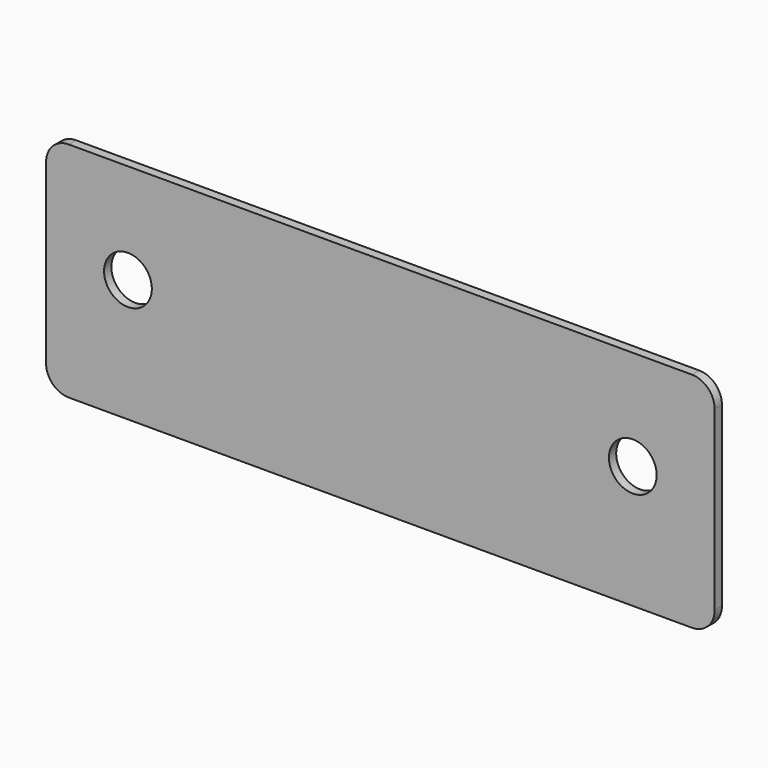
from build123d import *

# Parameters (mm, degrees)
F0_W     = 147
F0_H     = 49
F1_DEPTH = 2
F2_R     = 5
F3_R     = 5
F4_R     = 5
F7_D     = 10.5


with BuildPart() as f1:
    # F0 (on Front) → F1 (new body)
    with BuildSketch(Plane.XZ):
        with Locations((-73.5, 24.5)):
            Rectangle(F0_W, F0_H)
    extrude(amount=-F1_DEPTH)

    # F2
    f2_edges = [f1.edges().sort_by_distance(p)[0] for p in [
        (0, 1, 49),
    ]]
    fillet(f2_edges, radius=F2_R)

    # F3
    f3_edges = [f1.edges().sort_by_distance(p)[0] for p in [
        (0, 1, 0),
    ]]
    fillet(f3_edges, radius=F3_R)

    # F4
    f4_edges = [f1.edges().sort_by_distance(p)[0] for p in [
        (-147, 1, 0),
        (-147, 1, 49),
    ]]
    fillet(f4_edges, radius=F4_R)

    # F7 (through all)
    with Locations(Plane.XZ):
        with Locations((-129, 27), (-18, 27)):
            Hole(F7_D / 2)


solid = f1.part
